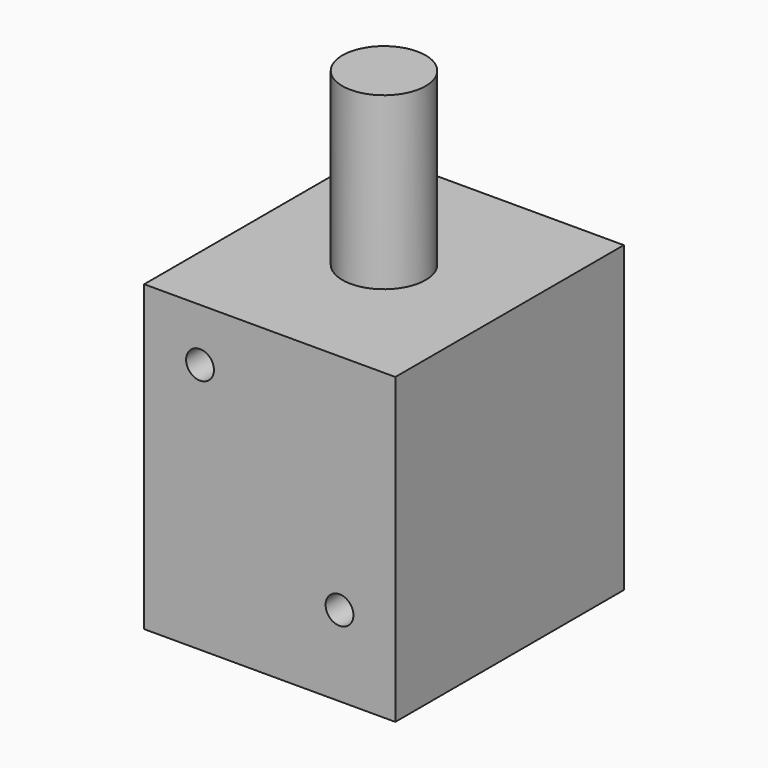
from build123d import *

# Parameters (mm, degrees)
F0_W     = 22.225
F0_H     = 26.8732
F1_DEPTH = 12.6365
F2_R     = 3.683
F3_DEPTH = 15.113
F5_D     = 2.4638
F5_DEPTH = 14.2
F5_TIP   = 0.7402001966


with BuildPart() as f1:
    # F0 (on Front) → F1 (new body, symmetric)
    with BuildSketch(Plane.XZ):
        Rectangle(F0_W, F0_H)
    extrude(amount=F1_DEPTH, both=True)

    # F2 (on face) → F3 (join)
    with BuildSketch(Plane.XY.offset(13.4366)):
        Circle(F2_R)
    extrude(amount=F3_DEPTH)

    # F5
    with Locations(Plane.XZ.offset(12.6365)):
        with Locations((-6.1722, 8.763), (6.1722, -6.3246)):
            Hole(F5_D / 2, depth=F5_DEPTH)
            with Locations((0, 0, -(F5_DEPTH + F5_TIP / 2))):  # 118° drill point
                Cone(0, F5_D / 2, F5_TIP, mode=Mode.SUBTRACT)


solid = f1.part
